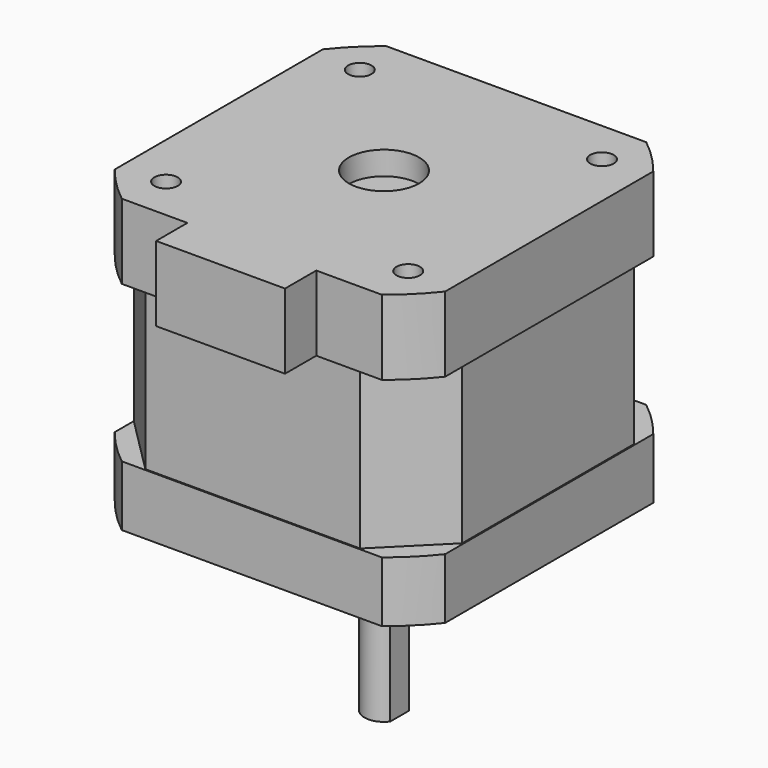
from build123d import *

# Parameters (mm, degrees)
PAD009_DEPTH              = 7.75
PAD010_DEPTH              = 20
PAD011_DEPTH              = 9.6
SKETCH017_R               = 1.5
POCKET004_DEPTH           = 4.5
SKETCH018_R               = 11
SKETCH018_R_2             = 5
PAD012_DEPTH              = 2
SKETCH019_R               = 2.5
PAD013_DEPTH              = 23.5
SKETCH020_W               = 0.5
SKETCH020_H               = 3
POCKET005_DEPTH           = 17
SKETCH021_R               = 1.5
SKETCH021_R_2             = 4.5
POCKET006_DEPTH           = 3
SKETCH022_W               = 16.5
SKETCH022_H               = 9.6
PAD014_DEPTH              = 5
CLONEBODY_PLACEMENT_ANGLE = 180


with BuildPart() as part:
    # Sketch014 → Pad009 (new body)
    with BuildSketch(Plane.XY):
        with BuildLine():
            Line((-16.65, -21.15), (16.65, -21.15))
            ThreePointArc((16.65, -21.15), (19.033457, -19.033457), (21.15, -16.65))
            Line((21.15, -16.65), (21.15, 16.65))
            ThreePointArc((21.15, 16.65), (19.033457, 19.033457), (16.65, 21.15))
            Line((16.65, 21.15), (-16.65, 21.15))
            ThreePointArc((-16.65, 21.15), (-19.033457, 19.033457), (-21.15, 16.65))
            Line((-21.15, 16.65), (-21.15, -16.65))
            ThreePointArc((-21.15, -16.65), (-19.033457, -19.033457), (-16.65, -21.15))
        make_face()
    extrude(amount=-PAD009_DEPTH)

    # Sketch015 (on Face10 of Pad009) → Pad010 (join)
    with BuildSketch(Plane(origin=(0, 0, -7.75), x_dir=(1, 0, 0), z_dir=(0, 0, -1))):
        Polygon((-21, -13.75), (-21, 13.75), (-13.75, 21), (13.75, 21), (21, 13.75), (21, -13.75), (13.75, -21), (-13.75, -21), align=None)
    extrude(amount=PAD010_DEPTH)

    # Sketch016 (on Face19 of Pad010) → Pad011 (join)
    with BuildSketch(Plane(origin=(0, 0, -27.75), x_dir=(1, 0, 0), z_dir=(0, 0, -1))):
        with BuildLine():
            Line((-16.65, -21.15), (16.65, -21.15))
            ThreePointArc((16.65, -21.15), (19.033457, -19.033457), (21.15, -16.65))
            Line((21.15, -16.65), (21.15, 16.65))
            ThreePointArc((21.15, 16.65), (19.033457, 19.033457), (16.65, 21.15))
            Line((16.65, 21.15), (-16.65, 21.15))
            ThreePointArc((-16.65, 21.15), (-19.033457, 19.033457), (-21.15, 16.65))
            Line((-21.15, 16.65), (-21.15, -16.65))
            ThreePointArc((-21.15, -16.65), (-19.033457, -19.033457), (-16.65, -21.15))
        make_face()
    extrude(amount=PAD011_DEPTH)

    # Sketch017 (on Face4 of Pad011) → Pocket004 (cut)
    with BuildSketch(Plane.XY):
        with Locations((-15.5, 15.5)):
            Circle(SKETCH017_R)
        with Locations((15.5, 15.5)):
            Circle(SKETCH017_R)
        with Locations((15.5, -15.5)):
            Circle(SKETCH017_R)
        with Locations((-15.5, -15.5)):
            Circle(SKETCH017_R)
    extrude(amount=-POCKET004_DEPTH, mode=Mode.SUBTRACT)

    # Sketch018 (on Face4 of Pocket004) → Pad012 (join)
    with BuildSketch(Plane.XY):
        Circle(SKETCH018_R)
        Circle(SKETCH018_R_2, mode=Mode.SUBTRACT)
    extrude(amount=PAD012_DEPTH)

    # Sketch019 (on Face39 of Pad012) → Pad013 (join)
    with BuildSketch(Plane.XY):
        Circle(SKETCH019_R)
    extrude(amount=PAD013_DEPTH)

    # Sketch020 (on Face42 of Pad013) → Pocket005 (cut)
    with BuildSketch(Plane.XY.offset(23.5)):
        with Locations((-2.25, 0)):
            Rectangle(SKETCH020_W, SKETCH020_H)
    extrude(amount=-POCKET005_DEPTH, mode=Mode.SUBTRACT)

    # Sketch021 (on Face40 of Pocket005) → Pocket006 (cut)
    with BuildSketch(Plane(origin=(0, 0, -37.35), x_dir=(1, 0, 0), z_dir=(0, 0, -1))):
        with Locations((-15.5, 15.5)):
            Circle(SKETCH021_R)
        with Locations((15.5, 15.5)):
            Circle(SKETCH021_R)
        with Locations((15.5, -15.5)):
            Circle(SKETCH021_R)
        with Locations((-15.5, -15.5)):
            Circle(SKETCH021_R)
        Circle(SKETCH021_R_2)
    extrude(amount=-POCKET006_DEPTH, mode=Mode.SUBTRACT)

    # Sketch022 (on Face38 of Pocket006) → Pad014 (join)
    with BuildSketch(Plane.XZ.offset(21.15)):
        with Locations((0, -32.55)):
            Rectangle(SKETCH022_W, SKETCH022_H)
    extrude(amount=PAD014_DEPTH)


with BuildPart() as part_1:
    # CloneBody placement: moved
    add(part.part.moved(Location((-35.05, 0, 8))).rotate(Axis((-35.05, 0, 8), (0, 1, 0)), CLONEBODY_PLACEMENT_ANGLE))


solid = part_1.part
